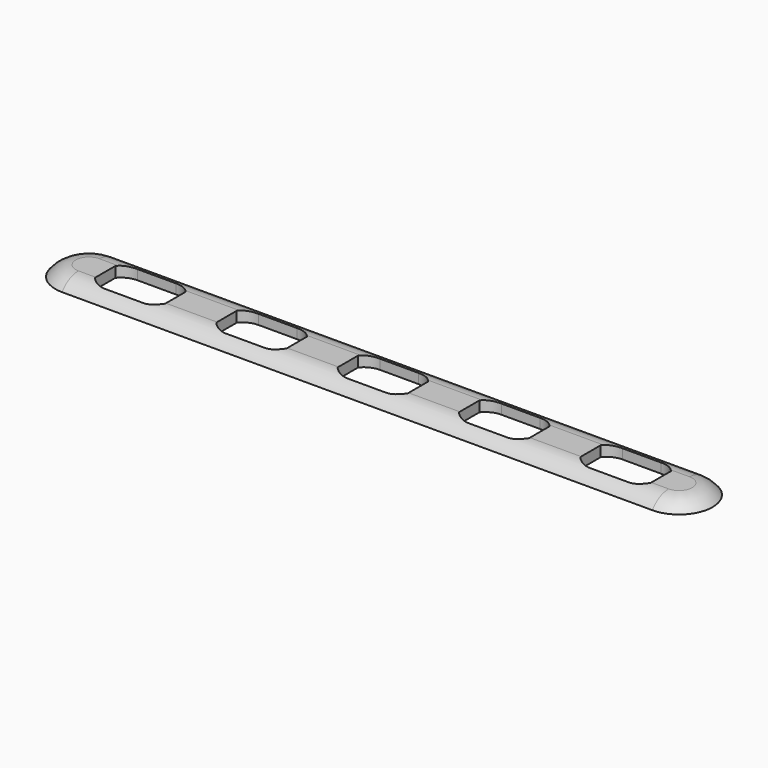
from build123d import *

# Parameters (mm, degrees)
PAD015_DEPTH        = 10
REVOLUTION_ANGLE    = -180
REVOLUTION001_ANGLE = 180
PAD014_DEPTH        = 90


with BuildPart() as pad015:
    # Sketch017 → Pad015 (new body)
    with BuildSketch(Plane.XY):
        with BuildLine():
            Line((11.35, -55.552759), (11.35, -59.447241))
            ThreePointArc((8.937894, -60.6), (10.274598, -60.297003), (11.35, -59.447241))
            Line((8.937894, -60.6), (3.062106, -60.6))
            ThreePointArc((0.65, -59.447241), (1.725402, -60.297003), (3.062106, -60.6))
            Line((0.65, -59.447241), (0.65, -55.552759))
            ThreePointArc((3.062106, -54.4), (1.725402, -54.702997), (0.65, -55.552759))
            Line((3.062106, -54.4), (8.937894, -54.4))
            ThreePointArc((11.35, -55.552759), (10.274598, -54.702997), (8.937894, -54.4))
        make_face()
        with BuildLine():
            Line((29.85, -55.552759), (29.85, -59.447241))
            ThreePointArc((27.437894, -60.6), (28.774598, -60.297003), (29.85, -59.447241))
            Line((27.437894, -60.6), (21.562106, -60.6))
            ThreePointArc((19.15, -59.447241), (20.225402, -60.297003), (21.562106, -60.6))
            Line((19.15, -59.447241), (19.15, -55.552759))
            ThreePointArc((21.562106, -54.4), (20.225402, -54.702997), (19.15, -55.552759))
            Line((21.562106, -54.4), (27.437894, -54.4))
            ThreePointArc((29.85, -55.552759), (28.774598, -54.702997), (27.437894, -54.4))
        make_face()
        with BuildLine():
            Line((48.35, -55.552759), (48.35, -59.447241))
            ThreePointArc((45.937894, -60.6), (47.274598, -60.297003), (48.35, -59.447241))
            Line((45.937894, -60.6), (40.062106, -60.6))
            ThreePointArc((37.65, -59.447241), (38.725402, -60.297003), (40.062106, -60.6))
            Line((37.65, -59.447241), (37.65, -55.552759))
            ThreePointArc((40.062106, -54.4), (38.725402, -54.702997), (37.65, -55.552759))
            Line((40.062106, -54.4), (45.937894, -54.4))
            ThreePointArc((48.35, -55.552759), (47.274598, -54.702997), (45.937894, -54.4))
        make_face()
        with BuildLine():
            Line((66.85, -55.552759), (66.85, -59.447241))
            ThreePointArc((64.437894, -60.6), (65.774598, -60.297003), (66.85, -59.447241))
            Line((64.437894, -60.6), (58.562106, -60.6))
            ThreePointArc((56.15, -59.447241), (57.225402, -60.297003), (58.562106, -60.6))
            Line((56.15, -59.447241), (56.15, -55.552759))
            ThreePointArc((58.562106, -54.4), (57.225402, -54.702997), (56.15, -55.552759))
            Line((58.562106, -54.4), (64.437894, -54.4))
            ThreePointArc((66.85, -55.552759), (65.774598, -54.702997), (64.437894, -54.4))
        make_face()
        with BuildLine():
            Line((85.35, -55.552759), (85.35, -59.447241))
            ThreePointArc((82.937894, -60.6), (84.274598, -60.297003), (85.35, -59.447241))
            Line((82.937894, -60.6), (77.062106, -60.6))
            ThreePointArc((74.65, -59.447241), (75.725402, -60.297003), (77.062106, -60.6))
            Line((74.65, -59.447241), (74.65, -55.552759))
            ThreePointArc((77.062106, -54.4), (75.725402, -54.702997), (74.65, -55.552759))
            Line((77.062106, -54.4), (82.937894, -54.4))
            ThreePointArc((85.35, -55.552759), (84.274598, -54.702997), (82.937894, -54.4))
        make_face()
    extrude(amount=PAD015_DEPTH)


with BuildPart() as revolution:
    # Sketch016 → Revolution (revolve)
    with BuildSketch(Plane.YZ.offset(90)):
        with BuildLine():
            ThreePointArc((5.1, 4.5), (3.744276, 5.67641), (2, 6.1))
            Line((2, 6.1), (0, 6.1))
            Line((0, 6.1), (0, 4.5))
            Line((5.1, 4.5), (0, 4.5))
        make_face()
    revolve(axis=Axis((90, 0, 0), (0, 0, 1)), revolution_arc=REVOLUTION_ANGLE)


with BuildPart() as revolution001:
    # Clone2D001 → Revolution001 (revolve)
    with BuildSketch(Plane.YZ):
        with BuildLine():
            ThreePointArc((5.1, 4.5), (3.744276, 5.67641), (2, 6.1))
            Line((2, 6.1), (0, 6.1))
            Line((0, 6.1), (0, 4.5))
            Line((0, 4.5), (5.1, 4.5))
        make_face()
    revolve(axis=Axis((0, 0, 0), (0, 0, 1)), revolution_arc=REVOLUTION001_ANGLE)


with BuildPart() as cut_button_strip:
    # Sketch015 → Pad014 (new body)
    with BuildSketch(Plane.YZ):
        with BuildLine():
            Line((-5.1, 4.5), (5.1, 4.5))
            ThreePointArc((5.1, 4.5), (3.744276, 5.67641), (2, 6.1))
            Line((-2, 6.1), (2, 6.1))
            ThreePointArc((-2, 6.1), (-3.744276, 5.67641), (-5.1, 4.5))
        make_face()
    extrude(amount=PAD014_DEPTH)

    # Fusion002: union Revolution, Revolution001
    add(revolution.part)
    add(revolution001.part)


with BuildPart() as cut_button_strip_1:
    # Fusion002 placement: moved
    add(cut_button_strip.part.moved(Location((-2, -57.3, 0))))

    # Cut002: cut Pad015
    add(pad015.part, mode=Mode.SUBTRACT)


solid = cut_button_strip_1.part
